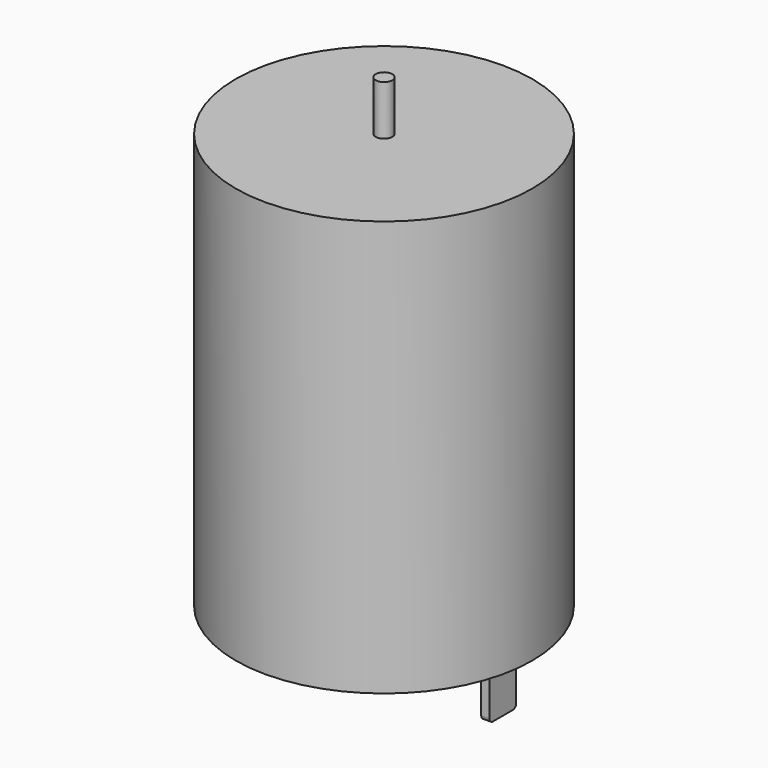
from build123d import *

# Parameters (mm, degrees)
F0_R          = 17.85
F1_DEPTH      = 50
F2_R          = 1
F3_DEPTH      = 4
F3_DEPTH_BACK = 56
F4_R          = 6
F5_DEPTH      = 1
F6_W          = 1
F6_H          = 4
F7_DEPTH      = 7
F8_R          = 0.5


with BuildPart() as f1:
    # F0 (on Top) → F1 (new body)
    with BuildSketch(Plane.XY):
        Circle(F0_R)
    extrude(amount=F1_DEPTH)

    # F2 (on Top) → F3 (join, two sides)
    with BuildSketch(Plane.XY) as f3_sk:
        Circle(F2_R)
    extrude(amount=-F3_DEPTH)
    extrude(f3_sk.sketch, amount=F3_DEPTH_BACK)

    # F4 (on Top) → F5 (join)
    with BuildSketch(Plane.XY):
        Circle(F4_R)
    extrude(amount=-F5_DEPTH)

    # F6 (on Top) → F7 (join)
    with BuildSketch(Plane.XY):
        with Locations((-13.8, 0)):
            Rectangle(F6_W, F6_H)
        with Locations((13.8, 0)):
            Rectangle(F6_W, F6_H)
    extrude(amount=-F7_DEPTH)

    # F8
    f8_edges = [f1.edges().sort_by_distance(p)[0] for p in [
        (13.8, -2, -7),
        (-13.8, -2, -7),
        (-13.8, 2, -7),
        (13.8, 2, -7),
    ]]
    fillet(f8_edges, radius=F8_R)


solid = f1.part
